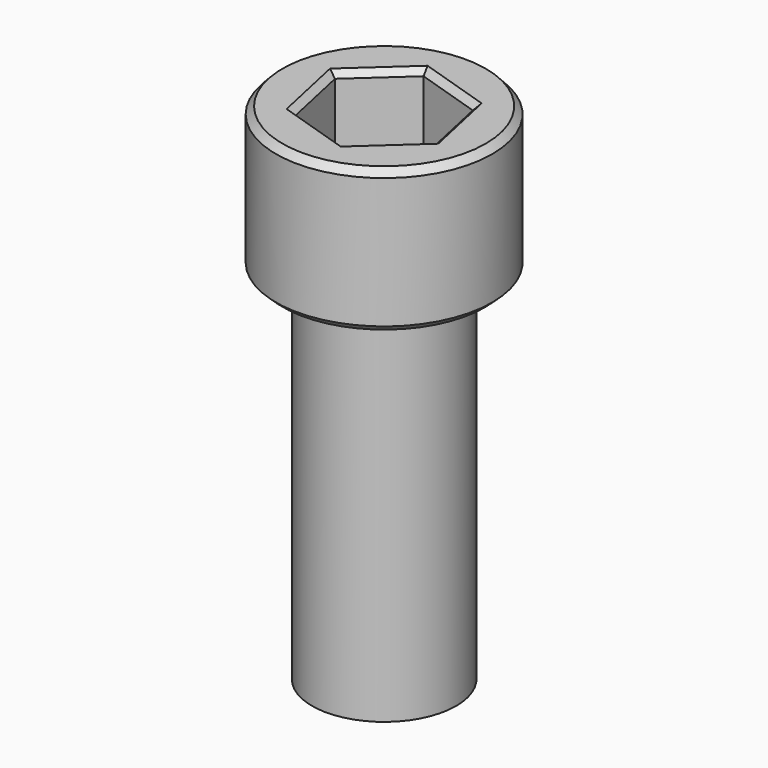
from build123d import *

# Parameters (mm, degrees)
F3_DEPTH = 6.6
F4_SIZE  = 0.5


with BuildPart() as f1:
    # F0 (on Front) → F1 (revolve)
    with BuildSketch(Plane.XZ):
        Polygon((8.457855, 12), (0, 12), (0, -30), (6, -30), (6, 0), (8.411715, 0), (9, 0.542145), (9, 11.411715), align=None)
    revolve(axis=Axis((0, 0, -9), (0, 0, 1)))

    # F2 (on face) → F3 (cut)
    with BuildSketch(Plane.XY.offset(12)):
        Polygon((-1.227341, 5.641539), (-5.499387, 1.757861), (-4.272046, -3.883678), (1.227341, -5.641539), (5.499387, -1.757861), (4.272046, 3.883678), align=None)
    extrude(amount=-F3_DEPTH, mode=Mode.SUBTRACT)

    # F4
    f4_edges = [f1.edges().sort_by_distance(p)[0] for p in [
        (3.363364, -3.6997, 12),
        (-1.522352, -4.762609, 12),
        (-4.885716, -1.062909, 12),
        (-3.363364, 3.6997, 12),
        (1.522352, 4.762609, 12),
        (4.885716, 1.062909, 12),
        (4.885716, 1.062909, 5.4),
        (3.363364, -3.6997, 5.4),
        (-1.522352, -4.762609, 5.4),
        (-4.885716, -1.062909, 5.4),
        (-3.363364, 3.6997, 5.4),
        (1.522352, 4.762609, 5.4),
    ]]
    chamfer(f4_edges, length=F4_SIZE)


solid = f1.part
